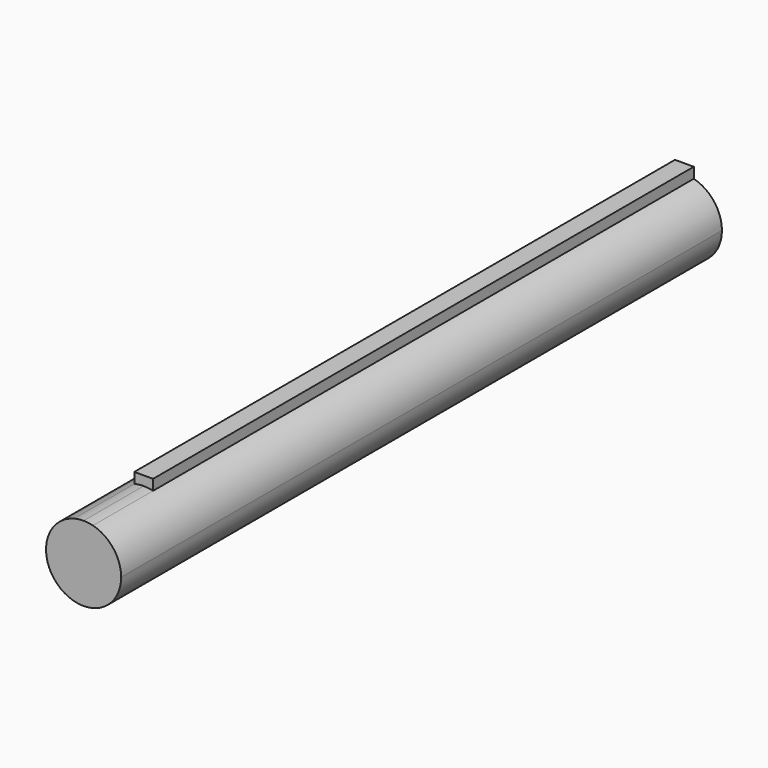
from build123d import *

# Parameters (mm, degrees)
F1_DEPTH = 254
F2_DEPTH = 228.6


with BuildPart() as f1:
    # F0 (on Front) → F1 (new body)
    with BuildSketch(Plane.XZ):
        with BuildLine():
            ThreePointArc((-39.860837, 56.103354), (-44.462967, 33.7664), (-23.985837, 43.806632))
            ThreePointArc((-23.985837, 43.806632), (-26.645606, 51.583762), (-33.510837, 56.103354))
            ThreePointArc((-33.510837, 56.103354), (-35.085583, 56.405409), (-36.685837, 56.506632))
            ThreePointArc((-36.685837, 56.506632), (-38.286092, 56.405409), (-39.860837, 56.103354))
        make_face()
    extrude(amount=F1_DEPTH)

    # F0 (on Front) → F2 (join)
    with BuildSketch(Plane.XZ):
        with BuildLine():
            Line((-39.860837, 59.681632), (-39.860837, 56.103354))
            ThreePointArc((-39.860837, 56.103354), (-38.286092, 56.405409), (-36.685837, 56.506632))
            Line((-36.685837, 56.506632), (-36.685837, 59.681632))
            Line((-36.685837, 59.681632), (-39.860837, 59.681632))
        make_face()
        with BuildLine():
            ThreePointArc((-36.685837, 56.506632), (-35.085583, 56.405409), (-33.510837, 56.103354))
            Line((-33.510837, 56.103354), (-33.510837, 59.681632))
            Line((-33.510837, 59.681632), (-36.685837, 59.681632))
            Line((-36.685837, 59.681632), (-36.685837, 56.506632))
        make_face()
    extrude(amount=F2_DEPTH)


solid = f1.part
